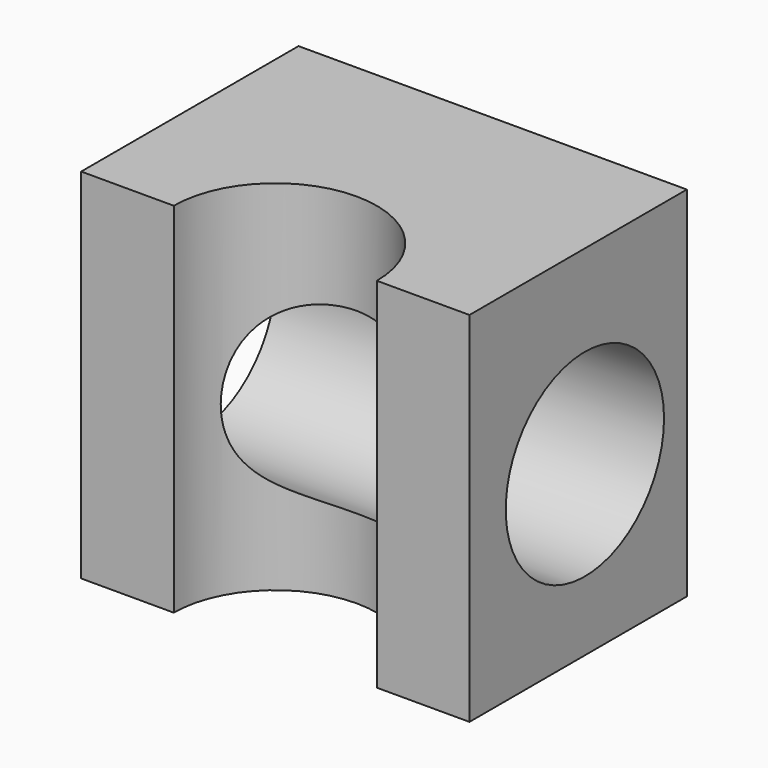
from build123d import *

# Parameters (mm, degrees)
F0_W     = 55.060647
F0_H     = 38.523335
F1_DEPTH = 50.8
F3_DEPTH = 76.2
F4_R     = 14.028746
F5_DEPTH = 76.2


with BuildPart() as f1:
    # F0 (on Top) → F1 (new body)
    with BuildSketch(Plane.XY):
        with Locations((27.530323, -19.261667)):
            Rectangle(F0_W, F0_H)
    extrude(amount=F1_DEPTH)

    # F2 (on face) → F3 (cut)
    with BuildSketch(Plane.XY.offset(50.8)):
        with BuildLine():
            Line((13.1344, -38.523335), (41.926248, -38.523335))
            ThreePointArc((41.926248, -38.523335), (27.530324, -24.127411), (13.1344, -38.523335))
        make_face()
        with BuildLine():
            ThreePointArc((13.1344, -38.523335), (27.530324, -52.919259), (41.926248, -38.523335))
            Line((41.926248, -38.523335), (13.1344, -38.523335))
        make_face()
    extrude(amount=-F3_DEPTH, mode=Mode.SUBTRACT)

    # F4 (on face) → F5 (cut)
    with BuildSketch(Plane.YZ.offset(55.060647)):
        with Locations((-18.069319, 23.868291)):
            Circle(F4_R)
    extrude(amount=-F5_DEPTH, mode=Mode.SUBTRACT)


solid = f1.part
